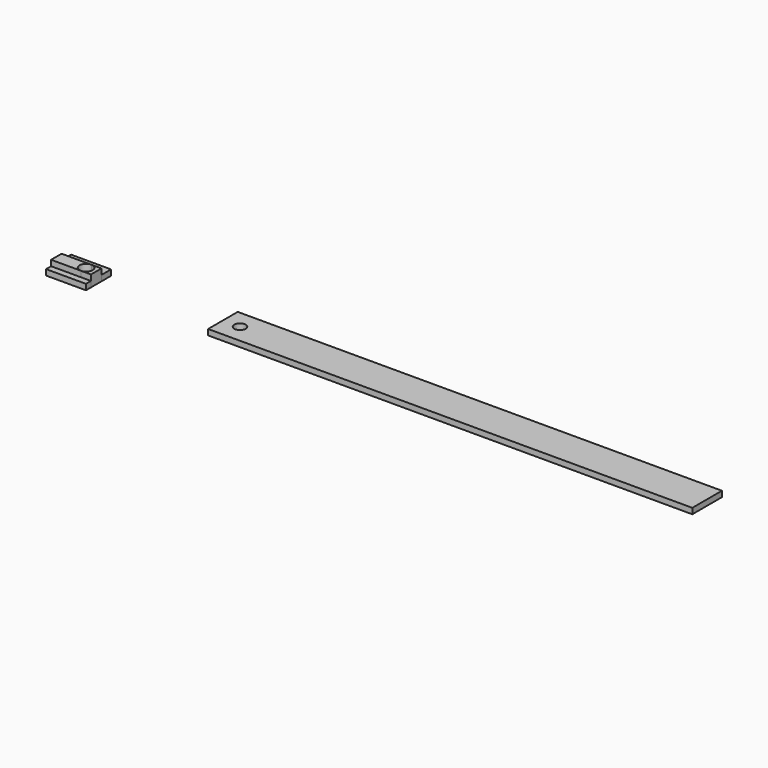
from build123d import *

# Parameters (mm, degrees)
F0_W     = 85
F0_H     = 6.5
F0_R     = 1
F1_DEPTH = 1
F3_DEPTH = 1
F4_DEPTH = 2


with BuildPart() as f1:
    # F0 (on Top) → F1 (new body)
    with BuildSketch(Plane.XY):
        with Locations((46.937780939, 3.25)):
            Rectangle(F0_W, F0_H)
        with Locations((7.437780939, 3.25)):
            Circle(F0_R, mode=Mode.SUBTRACT)
    extrude(amount=F1_DEPTH)


with BuildPart() as f3:
    # F2 (on Top) → F3 (new body)
    with BuildSketch(Plane.XY):
        Polygon((-18.7815961412, 3.4), (-17.0057911724, 3.4), (-17.0057911724, 5.5), (-24.0057911724, 5.5), (-24.0057911724, 3.4), align=None)
    extrude(amount=F3_DEPTH)


with BuildPart() as f3b:
    # F2 (on Top) → F3, piece 2 (new body)
    with BuildSketch(Plane.XY):
        Polygon((-24.0057911724, 0), (-17.0057911724, 0), (-17.0057911724, 1.1), (-18.7815961412, 1.1), (-24.0057911724, 1.1), align=None)
    extrude(amount=F3_DEPTH)


with BuildPart() as f4:
    # F2 (on Top) → F4 (new body)
    with BuildSketch(Plane.XY):
        with BuildLine():
            Line((-24.0057911724, 3.4), (-24.0057911724, 1.1))
            Line((-24.0057911724, 1.1), (-18.7815961412, 1.1))
            ThreePointArc((-18.7815961412, 1.1), (-19.9315961412, 2.25), (-18.7815961412, 3.4))
            Line((-18.7815961412, 3.4), (-24.0057911724, 3.4))
        make_face()
    extrude(amount=F4_DEPTH)


with BuildPart() as f4b:
    # F2 (on Top) → F4, piece 2 (new body)
    with BuildSketch(Plane.XY):
        with BuildLine():
            Line((-18.7815961412, 1.1), (-17.0057911724, 1.1))
            Line((-17.0057911724, 1.1), (-17.0057911724, 3.4))
            Line((-17.0057911724, 3.4), (-18.7815961412, 3.4))
            ThreePointArc((-18.7815961412, 3.4), (-17.9684233429, 3.0631727984), (-17.6315961412, 2.25))
            ThreePointArc((-17.6315961412, 2.25), (-17.9684233429, 1.4368272016), (-18.7815961412, 1.1))
        make_face()
    extrude(amount=F4_DEPTH)


solid = Compound([f1.part, f3.part, f3b.part, f4.part, f4b.part])
